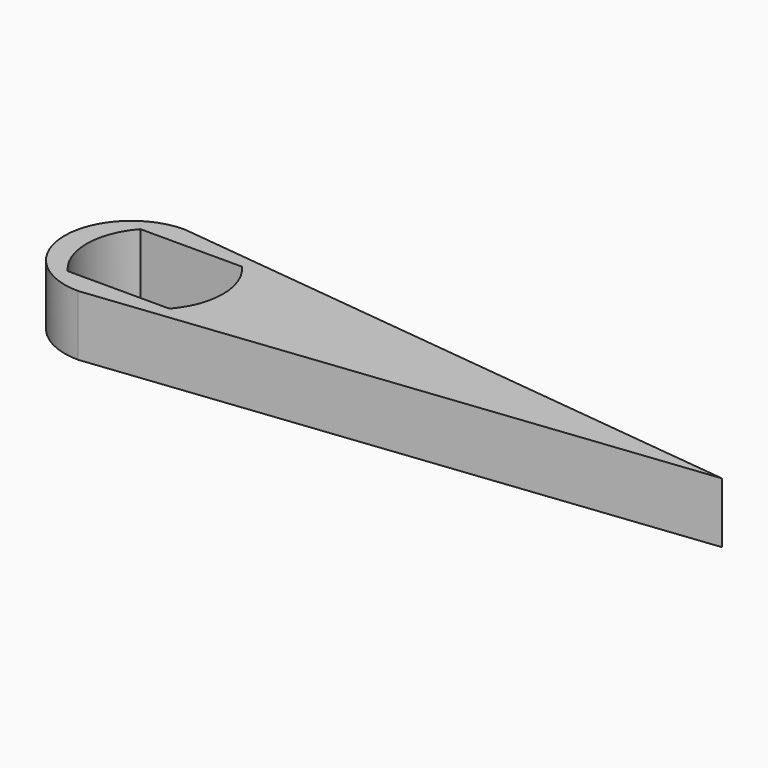
from build123d import *

# Parameters (mm, degrees)
PAD_DEPTH    = 2
POCKET_DEPTH = 2


with BuildPart() as part:
    # Sketch → Pad (new body)
    with BuildSketch(Plane(origin=(0, 0, 0), x_dir=(1, 0, 0), z_dir=(0, 0, -1))):
        with BuildLine():
            Line((0, 2.2), (19.5, 0))
            Line((19.5, 0), (0, -2.2))
            ThreePointArc((0, 2.2), (-2.2, 0), (0, -2.2))
        make_face()
    extrude(amount=PAD_DEPTH)

    # Sketch001 → Pocket (cut)
    with BuildSketch(Plane(origin=(0, 0, -2), x_dir=(1, 0, 0), z_dir=(0, 0, -1))):
        with BuildLine():
            Line((-0.899765, 1.5), (2.454335, 1.5))
            ThreePointArc((2.454335, -1.5), (3.027284, 0), (2.454335, 1.5))
            Line((-0.899765, -1.5), (2.454335, -1.5))
            ThreePointArc((-0.899765, 1.5), (-1.472714, 0), (-0.899765, -1.5))
        make_face()
    extrude(amount=-POCKET_DEPTH, mode=Mode.SUBTRACT)


solid = part.part
